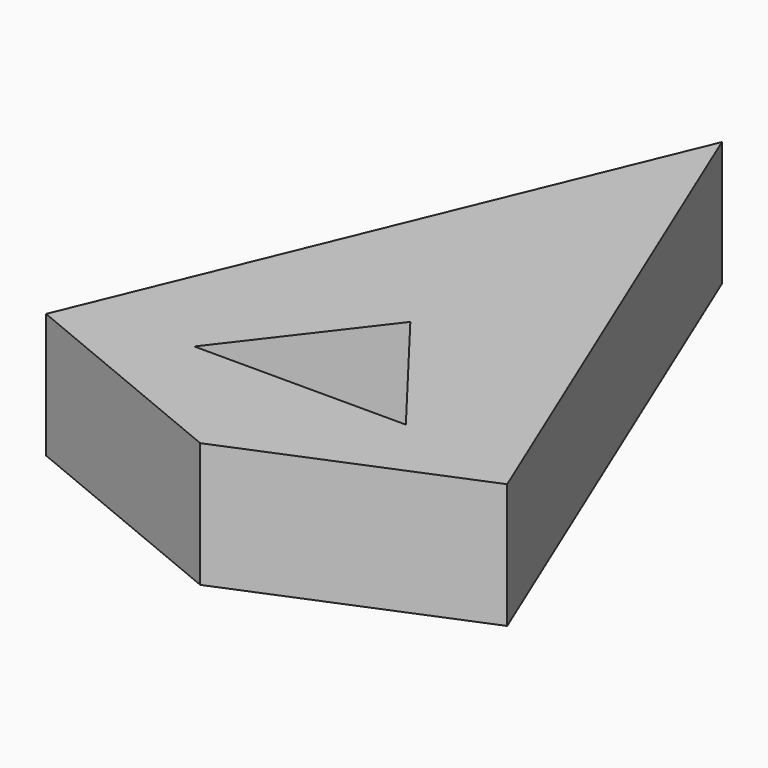
from build123d import *

# Parameters (mm, degrees)
F1_DEPTH = 25.4


with BuildPart() as f1:
    # F0 (on Top) → F1 (new body)
    with BuildSketch(Plane.XY):
        Polygon((0, 79.284341), (-46.93308, -34.022138), (0, -53.462457), (46.93308, -34.022138), align=None)
        Polygon((-21.53308, -28.062457), (0, 0), (21.53308, -28.062457), align=None, mode=Mode.SUBTRACT)
    extrude(amount=F1_DEPTH)


solid = f1.part
